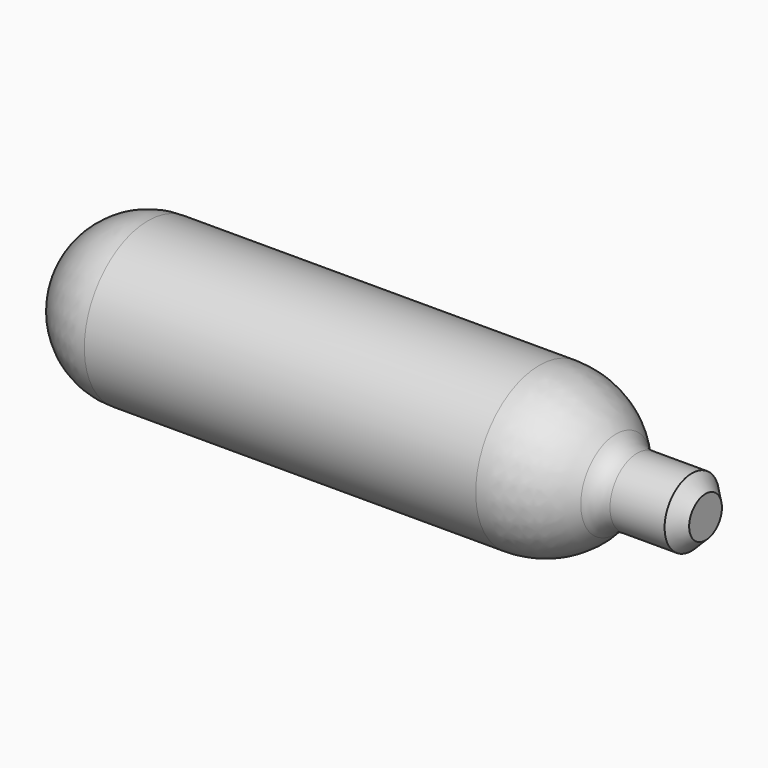
from build123d import *


with BuildPart() as f1:
    # F0 (on Front) → F1 (revolve)
    with BuildSketch(Plane.XZ):
        with BuildLine():
            ThreePointArc((-77.7875, 11.1125), (-85.645224, 7.857724), (-88.9, 0))
            Line((-88.9, 0), (0, 0))
            Line((0, 0), (0, 2.8575))
            Line((0, 2.8575), (-1.905, 4.7625))
            Line((-1.905, 4.7625), (-9.525, 4.7625))
            ThreePointArc((-9.525, 4.7625), (-11.161922, 5.124556), (-12.493463, 6.14318))
            ThreePointArc((-12.493463, 6.14318), (-17.285921, 9.809394), (-23.1775, 11.1125))
            Line((-23.1775, 11.1125), (-77.7875, 11.1125))
        make_face()
    revolve(axis=Axis((-44.45, 0, 0), (1, 0, 0)))


solid = f1.part
